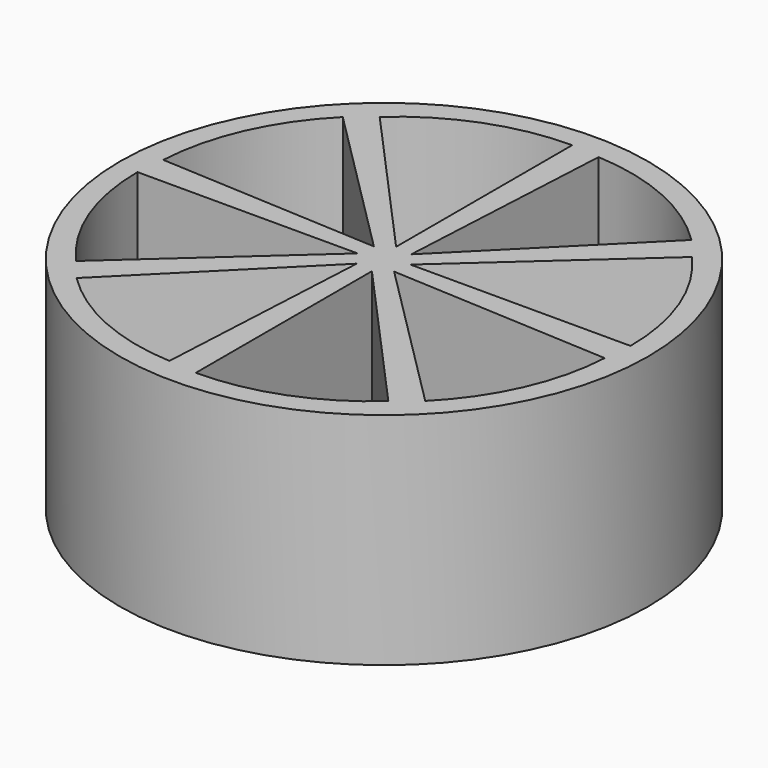
from build123d import *

# Parameters (mm, degrees)
CYLINDER001_W     = 10
CYLINDER001_H     = 12
CYLINDER001_ANGLE = 42
ARRAY_COUNT       = 8
CYLINDER_R        = 12
CYLINDER_DEPTH    = 10


with BuildPart() as array:
    # Cylinder001 → Cylinder001 (revolve)
    with BuildSketch(Plane(origin=(1, 0.25, 3), x_dir=(1, 0, 0), z_dir=(0, -1, 0))):
        with Locations((5, 6)):
            Rectangle(CYLINDER001_W, CYLINDER001_H)
    revolve(axis=Axis((1, 0.25, 3), (0, 0, 1)), revolution_arc=CYLINDER001_ANGLE)

    # Array: Array ×8 about axis
    array_axis = Axis((0, 0, 0), (0, 0, 1))


with BuildPart() as array_1:
    add(array.part)
    for i in range(1, ARRAY_COUNT):
        add(array.part.rotate(array_axis, i * 360 / ARRAY_COUNT))


with BuildPart() as cut:
    # Cylinder → Cylinder (new body)
    with BuildSketch(Plane.XY):
        Circle(CYLINDER_R)
    extrude(amount=CYLINDER_DEPTH)

    # Cut: cut Array
    add(array_1.part, mode=Mode.SUBTRACT)


solid = cut.part
